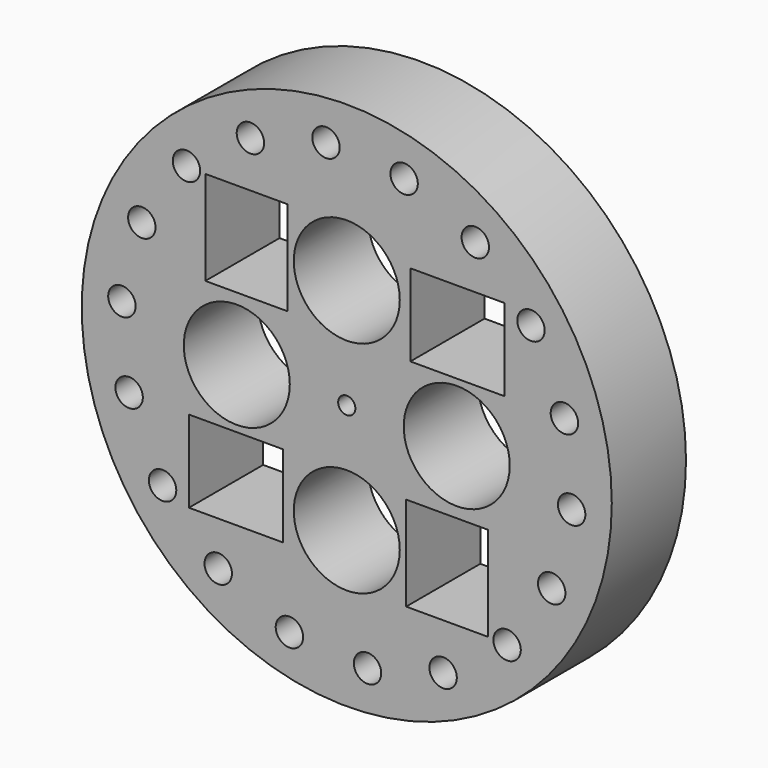
from build123d import *

# Parameters (mm, degrees)
F0_R     = 50.8
F0_R_2   = 2.6289
F0_W     = 18.061489
F0_H     = 15.723812
F0_R_3   = 10.16
F0_R_4   = 1.651
F0_W_2   = 15.723812
F0_H_2   = 18.061489
F1_DEPTH = 17.78


with BuildPart() as f1:
    # F0 (on Front) → F1 (new body)
    with BuildSketch(Plane.XZ):
        Circle(F0_R)
        with Locations((-10.989902, -41.825972)):
            Circle(F0_R_2, mode=Mode.SUBTRACT)
        with Locations((-24.632454, -35.544789)):
            Circle(F0_R_2, mode=Mode.SUBTRACT)
        with Locations((-35.30397, -24.976381)):
            Circle(F0_R_2, mode=Mode.SUBTRACT)
        with Locations((-41.717305, -11.395452)):
            Circle(F0_R_2, mode=Mode.SUBTRACT)
        with Locations((-21.219444, -19.242423)):
            Rectangle(F0_W, F0_H, mode=Mode.SUBTRACT)
        with Locations((0, -21.0787)):
            Circle(F0_R_3, mode=Mode.SUBTRACT)
        with Locations((-21.0787, 0)):
            Circle(F0_R_3, mode=Mode.SUBTRACT)
        Circle(F0_R_4, mode=Mode.SUBTRACT)
        with Locations((3.978195, -43.062325)):
            Circle(F0_R_2, mode=Mode.SUBTRACT)
        with Locations((18.466463, -39.104726)):
            Circle(F0_R_2, mode=Mode.SUBTRACT)
        with Locations((30.727403, -30.43052)):
            Circle(F0_R_2, mode=Mode.SUBTRACT)
        with Locations((19.242423, -21.219444)):
            Rectangle(F0_W_2, F0_H_2, mode=Mode.SUBTRACT)
        with Locations((21.0787, 0)):
            Circle(F0_R_3, mode=Mode.SUBTRACT)
        with Locations((39.282165, -18.085944)):
            Circle(F0_R_2, mode=Mode.SUBTRACT)
        with Locations((43.098918, -3.559937)):
            Circle(F0_R_2, mode=Mode.SUBTRACT)
        with Locations((-43.098918, 3.559937)):
            Circle(F0_R_2, mode=Mode.SUBTRACT)
        with Locations((-39.282165, 18.085944)):
            Circle(F0_R_2, mode=Mode.SUBTRACT)
        with Locations((-19.242423, 21.219444)):
            Rectangle(F0_W_2, F0_H_2, mode=Mode.SUBTRACT)
        with Locations((0, 21.0787)):
            Circle(F0_R_3, mode=Mode.SUBTRACT)
        with Locations((-30.727403, 30.43052)):
            Circle(F0_R_2, mode=Mode.SUBTRACT)
        with Locations((-18.466463, 39.104726)):
            Circle(F0_R_2, mode=Mode.SUBTRACT)
        with Locations((-3.978195, 43.062325)):
            Circle(F0_R_2, mode=Mode.SUBTRACT)
        with Locations((21.219444, 19.242423)):
            Rectangle(F0_W, F0_H, mode=Mode.SUBTRACT)
        with Locations((41.717305, 11.395452)):
            Circle(F0_R_2, mode=Mode.SUBTRACT)
        with Locations((35.30397, 24.976381)):
            Circle(F0_R_2, mode=Mode.SUBTRACT)
        with Locations((24.632454, 35.544789)):
            Circle(F0_R_2, mode=Mode.SUBTRACT)
        with Locations((10.989902, 41.825972)):
            Circle(F0_R_2, mode=Mode.SUBTRACT)
    extrude(amount=F1_DEPTH)


solid = f1.part
